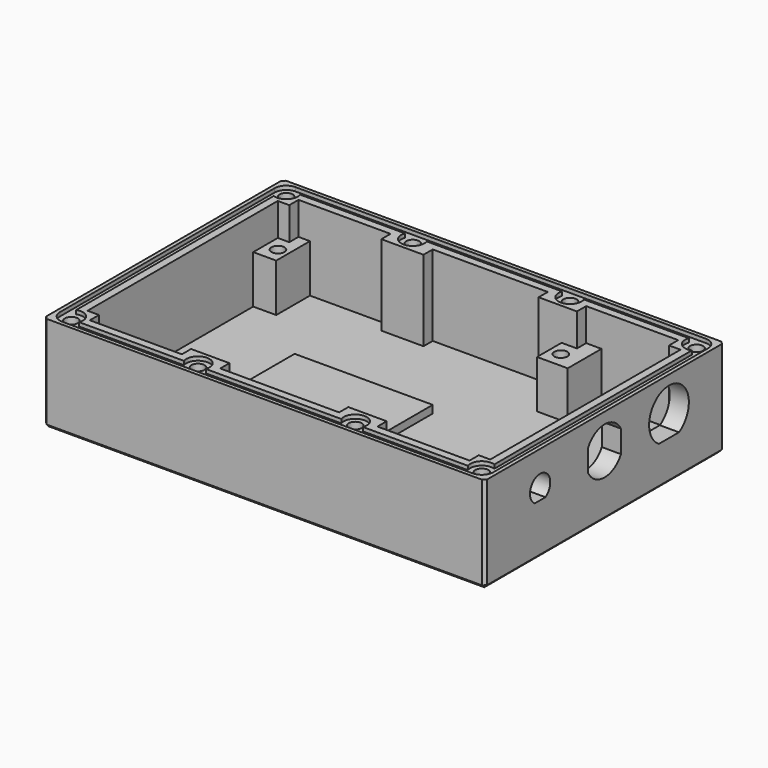
from build123d import *

# Parameters (mm, degrees)
SKETCH_W        = 115
SKETCH_H        = 78
PAD_DEPTH       = 27
SKETCH001_W     = 105
SKETCH001_H     = 68
POCKET_DEPTH    = 21
POCKET005_DEPTH = 5
SKETCH015_W     = 6
SKETCH015_H     = 11
SKETCH015_W_2   = 8
PAD006_DEPTH    = 15.5
SKETCH012_W     = 3
SKETCH012_H     = 3
SKETCH012_W_2   = 10
SKETCH012_W_3   = 11
PAD007_DEPTH    = 24
SKETCH016_R     = 1.7
HOLE_DEPTH      = 11.5
HOLE_TIPS_R     = 1.7
SKETCH017_R     = 1.7
HOLE001_DEPTH   = 20
HOLE001_TIPS_R  = 1.7
SKETCH018_W     = 36
SKETCH018_H     = 36
PAD008_DEPTH    = 2
SKETCH025_R     = 1.7
POCKET010_DEPTH = 1
SKETCH028_W     = 88
SKETCH028_H     = 2
POCKET011_DEPTH = 115.001
CHAMFER_SIZE    = 0.75


with BuildPart() as part:
    # Sketch → Pad (new body)
    with BuildSketch(Plane.XY):
        with Locations((52.5, 32)):
            Rectangle(SKETCH_W, SKETCH_H)
    extrude(amount=PAD_DEPTH)

    # Sketch001 (on Face6 of Pad) → Pocket (cut)
    with BuildSketch(Plane.XY.offset(27)):
        with Locations((52.5, 32)):
            Rectangle(SKETCH001_W, SKETCH001_H)
    extrude(amount=-POCKET_DEPTH, mode=Mode.SUBTRACT)

    # Sketch014 → Pocket005 (cut)
    with BuildSketch(Plane.YZ.offset(110)):
        with BuildLine():
            ThreePointArc((56.25908, 12.405), (53, 24.475), (49.74092, 12.405))
            Line((49.74092, 12.405), (56.25908, 12.405))
        make_face()
        with BuildLine():
            ThreePointArc((12.746425, 15.2), (11, 21.3), (9.253575, 15.2))
            Line((12.746425, 15.2), (9.253575, 15.2))
        make_face()
        with BuildLine():
            ThreePointArc((26.65, 15.069556), (32, 11.9), (37.35, 15.069556))
            Line((37.35, 20.930444), (37.35, 15.069556))
            ThreePointArc((37.35, 20.930444), (32, 24.1), (26.65, 20.930444))
            Line((26.65, 20.930444), (26.65, 15.069556))
        make_face()
    extrude(amount=-POCKET005_DEPTH, mode=Mode.SUBTRACT)

    # Sketch015 → Pad006 (join)
    with BuildSketch(Plane.XY.offset(3)):
        with Locations((3, 60.5)):
            Rectangle(SKETCH015_W, SKETCH015_H)
        with Locations((78, 60.5)):
            Rectangle(SKETCH015_W_2, SKETCH015_H)
    extrude(amount=PAD006_DEPTH)

    # Sketch012 → Pad007 (join)
    with BuildSketch(Plane.XY.offset(3)):
        with Locations((1.5, 64.5)):
            Rectangle(SKETCH012_W, SKETCH012_H)
        with Locations((103.5, 64.5)):
            Rectangle(SKETCH012_W, SKETCH012_H)
        with Locations((1.5, -0.5)):
            Rectangle(SKETCH012_W, SKETCH012_H)
        with Locations((73, 64.5)):
            Rectangle(SKETCH012_W_2, SKETCH012_H)
        with Locations((32, -0.5)):
            Rectangle(SKETCH012_W_2, SKETCH012_H)
        with Locations((73, -0.5)):
            Rectangle(SKETCH012_W_2, SKETCH012_H)
        with Locations((32.5, 64.5)):
            Rectangle(SKETCH012_W_3, SKETCH012_H)
        with Locations((103.5, -0.5)):
            Rectangle(SKETCH012_W, SKETCH012_H)
    extrude(amount=PAD007_DEPTH)

    # Sketch016 → Hole (cut)
    with BuildSketch(Plane.XY.offset(18.5)):
        with Locations((3.25, 59)):
            Circle(SKETCH016_R)
        with Locations((77, 59)):
            Circle(SKETCH016_R)
    extrude(amount=-HOLE_DEPTH, mode=Mode.SUBTRACT)

    # Hole tips → Hole tip 1 section 0
    with BuildSketch(Plane.XY.offset(7), mode=Mode.PRIVATE) as hole_tip_1_s0:
        with Locations((3.25, 59)):
            Circle(HOLE_TIPS_R)
    loft([hole_tip_1_s0.sketch, Vertex(3.25, 59, 5.978537)], mode=Mode.SUBTRACT)

    # Hole tips → Hole tip 2 section 0
    with BuildSketch(Plane.XY.offset(7), mode=Mode.PRIVATE) as hole_tip_2_s0:
        with Locations((77, 59)):
            Circle(HOLE_TIPS_R)
    loft([hole_tip_2_s0.sketch, Vertex(77, 59, 5.978537)], mode=Mode.SUBTRACT)

    # Sketch017 (on Face2 of Hole) → Hole001 (cut)
    with BuildSketch(Plane.XY.offset(27)):
        with Locations((-1, 67)):
            Circle(SKETCH017_R)
        with Locations((-1, -3)):
            Circle(SKETCH017_R)
        with Locations((73, 67)):
            Circle(SKETCH017_R)
        with Locations((73, -3)):
            Circle(SKETCH017_R)
        with Locations((32, -3)):
            Circle(SKETCH017_R)
        with Locations((32, 67)):
            Circle(SKETCH017_R)
        with Locations((106, 67)):
            Circle(SKETCH017_R)
        with Locations((106, -3)):
            Circle(SKETCH017_R)
    extrude(amount=-HOLE001_DEPTH, mode=Mode.SUBTRACT)

    # Hole001 tips → Hole001 tip 1 section 0
    with BuildSketch(Plane.XY.offset(7), mode=Mode.PRIVATE) as hole001_tip_1_s0:
        with Locations((-1, 67)):
            Circle(HOLE001_TIPS_R)
    loft([hole001_tip_1_s0.sketch, Vertex(-1, 67, 5.978537)], mode=Mode.SUBTRACT)

    # Hole001 tips → Hole001 tip 2 section 0
    with BuildSketch(Plane.XY.offset(7), mode=Mode.PRIVATE) as hole001_tip_2_s0:
        with Locations((-1, -3)):
            Circle(HOLE001_TIPS_R)
    loft([hole001_tip_2_s0.sketch, Vertex(-1, -3, 5.978537)], mode=Mode.SUBTRACT)

    # Hole001 tips → Hole001 tip 3 section 0
    with BuildSketch(Plane.XY.offset(7), mode=Mode.PRIVATE) as hole001_tip_3_s0:
        with Locations((73, 67)):
            Circle(HOLE001_TIPS_R)
    loft([hole001_tip_3_s0.sketch, Vertex(73, 67, 5.978537)], mode=Mode.SUBTRACT)

    # Hole001 tips → Hole001 tip 4 section 0
    with BuildSketch(Plane.XY.offset(7), mode=Mode.PRIVATE) as hole001_tip_4_s0:
        with Locations((73, -3)):
            Circle(HOLE001_TIPS_R)
    loft([hole001_tip_4_s0.sketch, Vertex(73, -3, 5.978537)], mode=Mode.SUBTRACT)

    # Hole001 tips → Hole001 tip 5 section 0
    with BuildSketch(Plane.XY.offset(7), mode=Mode.PRIVATE) as hole001_tip_5_s0:
        with Locations((32, -3)):
            Circle(HOLE001_TIPS_R)
    loft([hole001_tip_5_s0.sketch, Vertex(32, -3, 5.978537)], mode=Mode.SUBTRACT)

    # Hole001 tips → Hole001 tip 6 section 0
    with BuildSketch(Plane.XY.offset(7), mode=Mode.PRIVATE) as hole001_tip_6_s0:
        with Locations((32, 67)):
            Circle(HOLE001_TIPS_R)
    loft([hole001_tip_6_s0.sketch, Vertex(32, 67, 5.978537)], mode=Mode.SUBTRACT)

    # Hole001 tips → Hole001 tip 7 section 0
    with BuildSketch(Plane.XY.offset(7), mode=Mode.PRIVATE) as hole001_tip_7_s0:
        with Locations((106, 67)):
            Circle(HOLE001_TIPS_R)
    loft([hole001_tip_7_s0.sketch, Vertex(106, 67, 5.978537)], mode=Mode.SUBTRACT)

    # Hole001 tips → Hole001 tip 8 section 0
    with BuildSketch(Plane.XY.offset(7), mode=Mode.PRIVATE) as hole001_tip_8_s0:
        with Locations((106, -3)):
            Circle(HOLE001_TIPS_R)
    loft([hole001_tip_8_s0.sketch, Vertex(106, -3, 5.978537)], mode=Mode.SUBTRACT)

    # Sketch018 → Pad008 (join)
    with BuildSketch(Plane.XY.offset(6)):
        with Locations((40, 23)):
            Rectangle(SKETCH018_W, SKETCH018_H)
    extrude(amount=PAD008_DEPTH)

    # Sketch025 → Pocket010 (cut)
    with BuildSketch(Plane.XY.offset(27)):
        with BuildLine():
            ThreePointArc((-1, 70), (-3.12132, 69.12132), (-4, 67))
            Line((-4, -3), (-4, 67))
            ThreePointArc((-4, -3), (-3.12132, -5.12132), (-1, -6))
            Line((-1, -6), (106, -6))
            ThreePointArc((106, -6), (108.12132, -5.12132), (109, -3))
            Line((109, 66.999984), (109, -3))
            ThreePointArc((109, 66.999984), (108.121326, 69.121315), (106, 70))
            Line((-1, 70), (106, 70))
        make_face()
        with Locations((32, 67)):
            Circle(SKETCH025_R, mode=Mode.SUBTRACT)
        with Locations((32, -3)):
            Circle(SKETCH025_R, mode=Mode.SUBTRACT)
        with Locations((106, -3)):
            Circle(SKETCH025_R, mode=Mode.SUBTRACT)
        with Locations((106, 67)):
            Circle(SKETCH025_R, mode=Mode.SUBTRACT)
        with BuildLine():
            Line((-2, 64.171573), (-2, -0.171573))
            ThreePointArc((1.828427, -4), (1.12132, -0.87868), (-2, -0.171573))
            Line((29.171573, -4), (1.828427, -4))
            ThreePointArc((34.828427, -4), (32, 0), (29.171573, -4))
            Line((70.171573, -4), (34.828427, -4))
            ThreePointArc((75.828427, -4), (73, 0), (70.171573, -4))
            Line((75.828427, -4), (103.171573, -4))
            ThreePointArc((107, -0.171573), (103.87868, -0.87868), (103.171573, -4))
            Line((107, 64.171573), (107, -0.171573))
            ThreePointArc((103.171573, 68), (103.87868, 64.87868), (107, 64.171573))
            Line((75.828427, 68), (103.171573, 68))
            ThreePointArc((70.171573, 68), (73, 64), (75.828427, 68))
            Line((34.828427, 68), (70.171573, 68))
            ThreePointArc((29.171573, 68), (32, 64), (34.828427, 68))
            Line((1.828427, 68), (29.171573, 68))
            ThreePointArc((-2, 64.171573), (1.12132, 64.87868), (1.828427, 68))
        make_face(mode=Mode.SUBTRACT)
    extrude(amount=-POCKET010_DEPTH, mode=Mode.SUBTRACT)

    # Sketch028 (on Face87 of Pocket010) → Pocket011 (cut, through all)
    with BuildSketch(Plane.YZ.offset(110)):
        with Locations((27, 1)):
            Rectangle(SKETCH028_W, SKETCH028_H)
    extrude(amount=-POCKET011_DEPTH, mode=Mode.SUBTRACT)

    # Chamfer
    chamfer_edges = [part.edges().sort_by_distance(p)[0] for p in [
        (52.5, -7, 2),
        (-5, -7, 14.5),
        (110, -7, 14.5),
        (110, 32, 2),
        (110, 71, 14.5),
        (52.5, 71, 2),
        (-5, 71, 14.5),
        (-5, 32, 2),
    ]]
    chamfer(chamfer_edges, length=CHAMFER_SIZE)


with BuildPart() as part_1:
    # Body placement: moved
    add(part.part.moved(Location((0, 0, -2.5))))


solid = part_1.part
